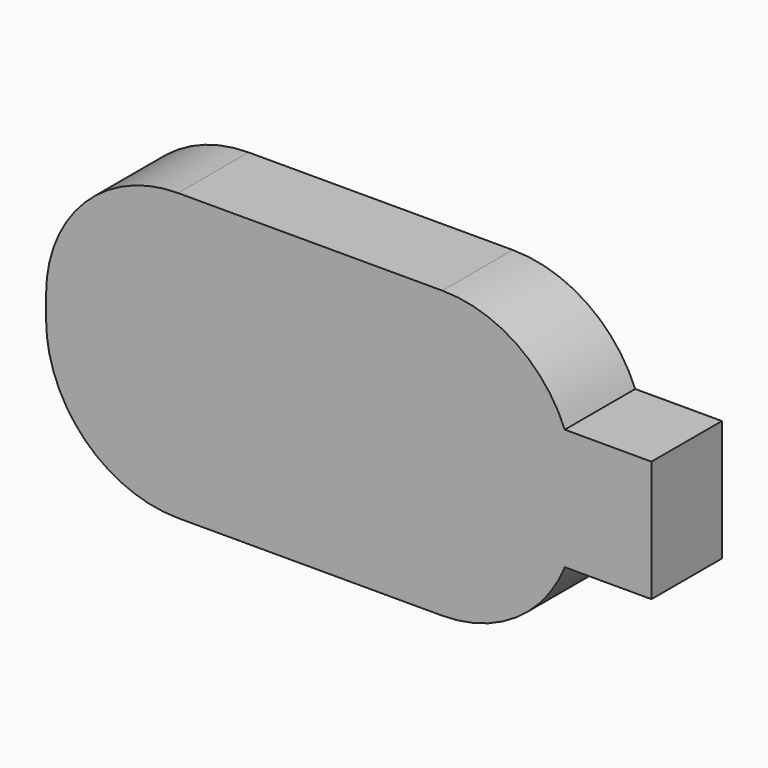
from build123d import *

# Parameters (mm, degrees)
SKETCH009_W  = 24
SKETCH009_H  = 13
PAD005_DEPTH = 4
FILLET001_R  = 6
SKETCH010_W  = 5.5
SKETCH010_H  = 5.5
PAD006_DEPTH = 4


with BuildPart() as part:
    # Sketch009 (on DatumPlane) → Pad005 (new body)
    with BuildSketch(Plane.XZ.offset(33)):
        with Locations((0, 8.5)):
            Rectangle(SKETCH009_W, SKETCH009_H)
    extrude(amount=PAD005_DEPTH)

    # Fillet001
    fillet001_edges = [part.edges().sort_by_distance(p)[0] for p in [
        (-12, -35, 15),
        (12, -35, 15),
        (-12, -35, 2),
        (12, -35, 2),
    ]]
    fillet(fillet001_edges, radius=FILLET001_R)

    # Sketch010 (on DatumPlane) → Pad006 (join)
    with BuildSketch(Plane.XZ.offset(33)):
        with Locations((12.75, 8.5)):
            Rectangle(SKETCH010_W, SKETCH010_H)
    extrude(amount=PAD006_DEPTH)


solid = part.part
